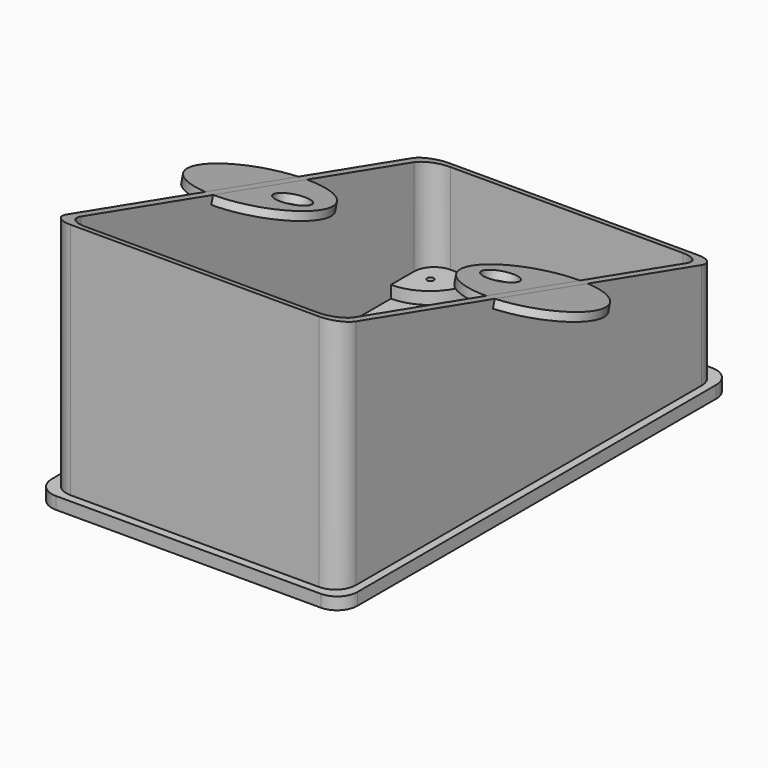
from build123d import *

# Parameters (mm, degrees)
PAD001_DEPTH    = 60
POCKET_DEPTH    = 57
SKETCH006_R     = 0.8
POCKET001_DEPTH = 3.001
POCKET002_DEPTH = 71.001
SKETCH008_R     = 15
SKETCH008_R_2   = 4
PAD002_DEPTH    = 2
PAD_DEPTH       = 3
SKETCH009_R     = 1.5
POCKET003_DEPTH = 5


with BuildPart() as pad002:
    # Sketch004 → Pad001 (new body)
    with BuildSketch(Plane.XY):
        with BuildLine():
            Line((7, 2), (68, 2))
            ThreePointArc((68, 2), (71.535534, 3.464466), (73, 7))
            Line((73, 7), (73, 113))
            ThreePointArc((73, 113), (71.535534, 116.535534), (68, 118))
            Line((68, 118), (7, 118))
            ThreePointArc((7, 118), (3.464466, 116.535534), (2, 113))
            Line((2, 113), (2, 7))
            ThreePointArc((2, 7), (3.464466, 3.464466), (7, 2))
        make_face()
        with BuildLine():
            Line((16, 4), (59, 4))
            ThreePointArc((71, 16), (62.514719, 12.485281), (59, 4))
            Line((71, 16), (71, 104))
            ThreePointArc((59, 116), (62.514719, 107.514719), (71, 104))
            Line((59, 116), (16, 116))
            ThreePointArc((4, 104), (12.485281, 107.514719), (16, 116))
            Line((4, 104), (4, 16))
            ThreePointArc((16, 4), (12.485281, 12.485281), (4, 16))
        make_face(mode=Mode.SUBTRACT)
    extrude(amount=PAD001_DEPTH)

    # Sketch003 → Pocket (cut)
    with BuildSketch(Plane.XY.offset(60)):
        with BuildLine():
            Line((9, 4), (66, 4))
            ThreePointArc((66, 4), (69.535534, 5.464466), (71, 9))
            Line((71, 9), (71, 111))
            ThreePointArc((71, 111), (69.535534, 114.535534), (66, 116))
            Line((66, 116), (9, 116))
            ThreePointArc((9, 116), (5.464466, 114.535534), (4, 111))
            Line((4, 111), (4, 9))
            ThreePointArc((4, 9), (5.464466, 5.464466), (9, 4))
        make_face()
    extrude(amount=-POCKET_DEPTH, mode=Mode.SUBTRACT)

    # Sketch006 → Pocket001 (cut, through all)
    with BuildSketch(Plane.XY.offset(3)):
        with Locations((8.5, 110.5)):
            Circle(SKETCH006_R)
        with Locations((66.5, 110.5)):
            Circle(SKETCH006_R)
        with Locations((8.5, 8.5)):
            Circle(SKETCH006_R)
        with Locations((66.5, 8.5)):
            Circle(SKETCH006_R)
    extrude(amount=-POCKET001_DEPTH, mode=Mode.SUBTRACT)

    # Sketch005 → Pocket002 (cut, through all)
    with BuildSketch(Plane.YZ.offset(73)):
        Polygon((202.285714, 0), (0, 59), (0, 90.06), (202.285714, 90.06), align=None)
    extrude(amount=-POCKET002_DEPTH, mode=Mode.SUBTRACT)

    # Sketch008 → Pad002 (new body)
    with BuildSketch(Plane(origin=(0, 15.8592, 54.3744), x_dir=(1, 0, 0), z_dir=(0, 0.28, 0.96))):
        with Locations((4, 50)):
            Circle(SKETCH008_R)
        with Locations((12, 50)):
            Circle(SKETCH008_R_2, mode=Mode.SUBTRACT)
        with Locations((71, 50)):
            Circle(SKETCH008_R)
        with Locations((63, 50)):
            Circle(SKETCH008_R_2, mode=Mode.SUBTRACT)
    extrude(amount=-PAD002_DEPTH)


with BuildPart() as pocket003:
    # Sketch → Pad (new body)
    with BuildSketch(Plane.XY):
        with BuildLine():
            Line((5, 0), (70, 0))
            ThreePointArc((70, 0), (73.535534, 1.464466), (75, 5))
            Line((75, 5), (75, 115))
            ThreePointArc((75, 115), (73.535534, 118.535534), (70, 120))
            Line((70, 120), (5, 120))
            ThreePointArc((5, 120), (1.464466, 118.535534), (0, 115))
            Line((0, 115), (0, 5))
            ThreePointArc((0, 5), (1.464466, 1.464466), (5, 0))
        make_face()
        with BuildLine():
            Line((28.5, 105), (46.5, 105))
            ThreePointArc((48.5, 103), (47.914214, 104.414214), (46.5, 105))
            Line((48.5, 103), (48.5, 83))
            ThreePointArc((46.5, 81), (47.914214, 81.585786), (48.5, 83))
            Line((46.5, 81), (28.5, 81))
            ThreePointArc((26.5, 83), (27.085786, 81.585786), (28.5, 81))
            Line((26.5, 83), (26.5, 103))
            ThreePointArc((28.5, 105), (27.085786, 104.414214), (26.5, 103))
        make_face(mode=Mode.SUBTRACT)
    extrude(amount=-PAD_DEPTH)

    # Sketch009 → Pocket003 (cut)
    with BuildSketch(Plane(origin=(0, 0, -3), x_dir=(1, 0, 0), z_dir=(0, 0, -1))):
        with Locations((66.5, -8.5)):
            Circle(SKETCH009_R)
        with Locations((8.5, -110.5)):
            Circle(SKETCH009_R)
        with Locations((66.5, -110.5)):
            Circle(SKETCH009_R)
        with Locations((8.5, -8.5)):
            Circle(SKETCH009_R)
    extrude(amount=-POCKET003_DEPTH, mode=Mode.SUBTRACT)


solid = Compound([pad002.part, pocket003.part])
